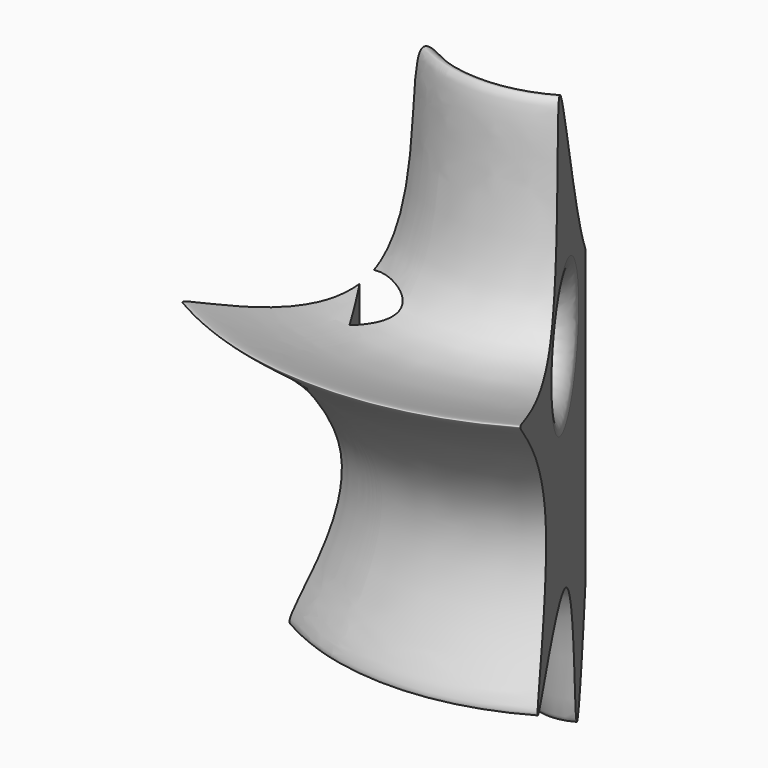
from build123d import *

# Parameters (mm, degrees)
F1_ANGLE_BACK = 30
F1_ANGLE      = 60
F2_R          = 4.5079852031
F3_DEPTH      = 15
F4_R          = 2


with BuildPart() as f1:
    # F0 (on Right) → F1 (revolve)
    with BuildSketch(Plane.YZ, mode=Mode.PRIVATE) as f1_sk:
        with BuildLine():
            Line((0, 0), (0, 27))
            add(Edge.make_bspline(
                [(0, 27), (-5.5034394129, 32.661690712), (-15.8471030498, 59.3621170559), (-10.5280846021, 19.7077828646), (-41.0819364315, 33.8046592086), (-10.5991049383, 16.215764014), (-29.7721432902, -5.3374961203), (-4.7977967218, 12.3670629457), (-5.5203058645, -16.1073831097), (-1.4451971006, -4.7678385339), (0, 0)],
                knots=[0, 0, 0, 0, 0.150530903, 0.287029044, 0.4059261233, 0.5423978305, 0.661868087, 0.7802364409, 0.9001627782, 1, 1, 1, 1], degree=3))
        make_face()
    revolve(f1_sk.sketch.rotate(Axis((0, 0, 13.5), (0, 0, -1)), -F1_ANGLE_BACK), axis=Axis((0, 0, 13.5), (0, 0, -1)), revolution_arc=F1_ANGLE)

    # F2 (on face) → F3 (cut, symmetric)
    with BuildSketch(Plane(origin=(0, 0, 0), x_dir=(-0.5, 0.8660254038, 0), z_dir=(0.8660254038, 0.5, 0))):
        with Locations((-9.7265727818, 24.1762548685)):
            Circle(F2_R)
    extrude(amount=F3_DEPTH, both=True, mode=Mode.SUBTRACT)

    # F4
    f4_edges = [f1.edges().sort_by_distance(p)[0] for p in [
        (7.117279, -12.327489, 24.176255),
    ]]
    fillet(f4_edges, radius=F4_R)


solid = f1.part
